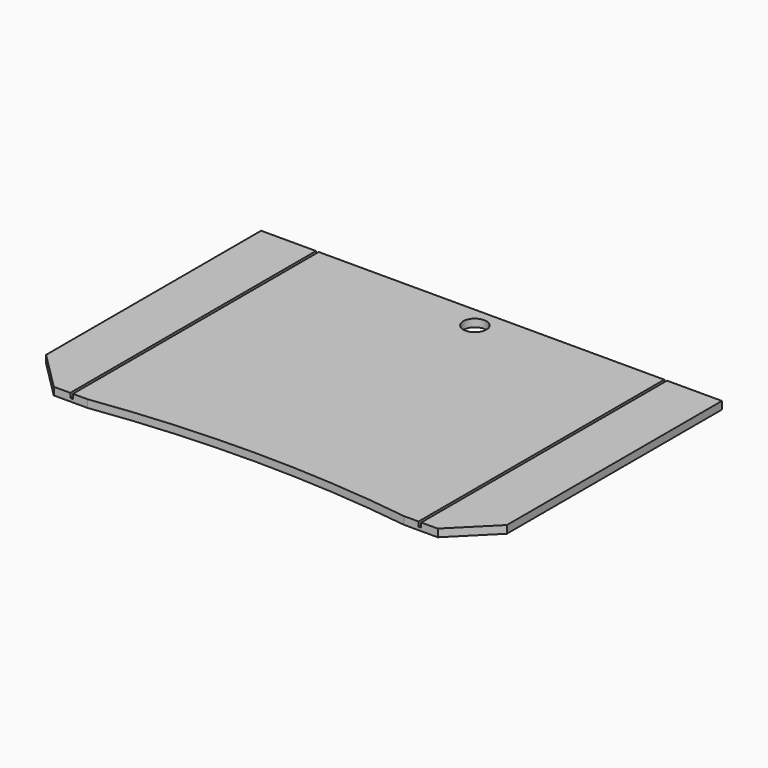
from build123d import *

# Parameters (mm, degrees)
SKETCH_R        = 30
PAD_DEPTH       = 20
SKETCH001_W     = 7
SKETCH001_H     = 942.511505
SKETCH001_H_2   = 1014.077607
POCKET_DEPTH    = 12
SKETCH002_R     = 3.7
POCKET001_DEPTH = 10
CHAMFER_SIZE    = 100


with BuildPart() as part:
    # Sketch → Pad (new body)
    with BuildSketch(Plane.XY):
        with BuildLine():
            Line((-600, 400), (600, 400))
            Line((600, 400), (600, -400))
            Line((600, -400), (412.1962, -400))
            ThreePointArc((412.1962, -400), (0, -371.547458), (-412.1962, -400))
            Line((-412.1962, -400), (-600, -400))
            Line((-600, -400), (-600, 400))
        make_face()
        with Locations((0, 345.880096)):
            Circle(SKETCH_R, mode=Mode.SUBTRACT)
    extrude(amount=PAD_DEPTH)

    # Sketch001 → Pocket (cut)
    with BuildSketch(Plane.XY.offset(20)):
        with Locations((-453.5, -23.519761)):
            Rectangle(SKETCH001_W, SKETCH001_H)
        with Locations((453.5, -39.674209)):
            Rectangle(SKETCH001_W, SKETCH001_H_2)
    extrude(amount=-POCKET_DEPTH, mode=Mode.SUBTRACT)

    # Sketch002 → Pocket001 (cut)
    with BuildSketch(Plane(origin=(0, 0, 0), x_dir=(1, 0, 0), z_dir=(0, 0, -1))):
        with Locations((-555, -230)):
            Circle(SKETCH002_R)
        with Locations((-555, 230)):
            Circle(SKETCH002_R)
        with Locations((555, 230)):
            Circle(SKETCH002_R)
        with Locations((555, -230)):
            Circle(SKETCH002_R)
    extrude(amount=-POCKET001_DEPTH, mode=Mode.SUBTRACT)

    # Chamfer
    chamfer_edges = [part.edges().sort_by_distance(p)[0] for p in [
        (-600, -400, 10),
        (600, -400, 10),
    ]]
    chamfer(chamfer_edges, length=CHAMFER_SIZE)


solid = part.part
